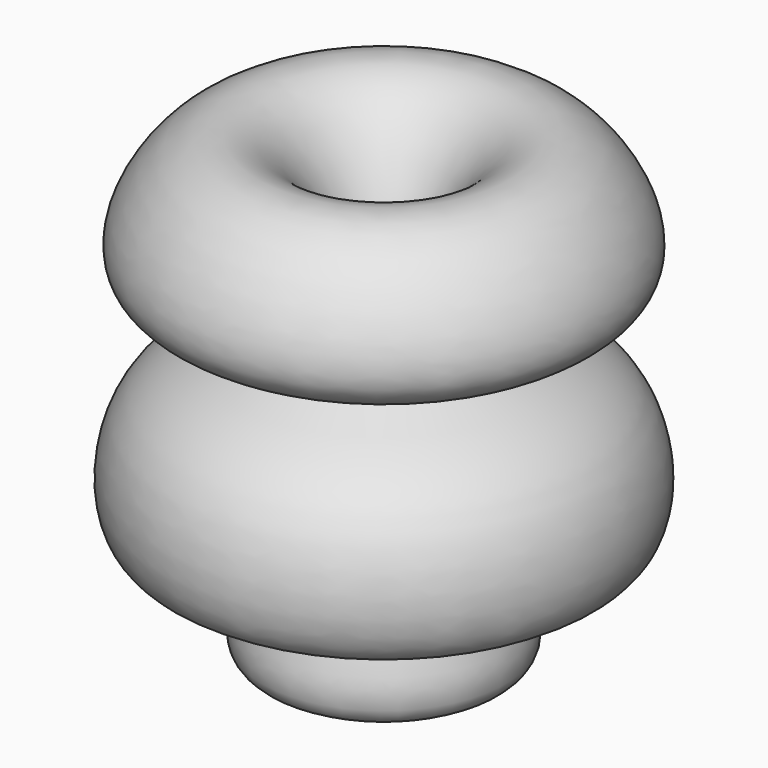
from build123d import *


with BuildPart() as f2:
    # F1 (on Front) → F2 (revolve)
    with BuildSketch(Plane.XZ):
        with BuildLine():
            add(Edge.make_bspline(
                [(-11.3618029281, 34.2763625085), (-17.9575062601, 48.1483757139), (-37.1339179892, 59.6658751774), (-61.9972406141, 16.1329441371), (-8.6562500141, 14.2755563547), (-55.8817712746, 3.5881669969), (-51.8483369551, -48.1300644475), (-5.5143083317, -2.3571059233), (-39.2879624709, -57.7642179277), (3.6002030742, -57.6852248742), (-0.1060631962, 10.6034102336), (-11.3618029281, 34.2763625085)],
                knots=[0, 0, 0, 0, 0.1066490576, 0.2135059368, 0.3125862424, 0.4144822439, 0.5209788825, 0.6249705029, 0.7373354869, 0.8180006022, 1, 1, 1, 1], degree=3))
        make_face()
    revolve(axis=Axis((0, 0, 0), (0, 0, 1)))


solid = f2.part
